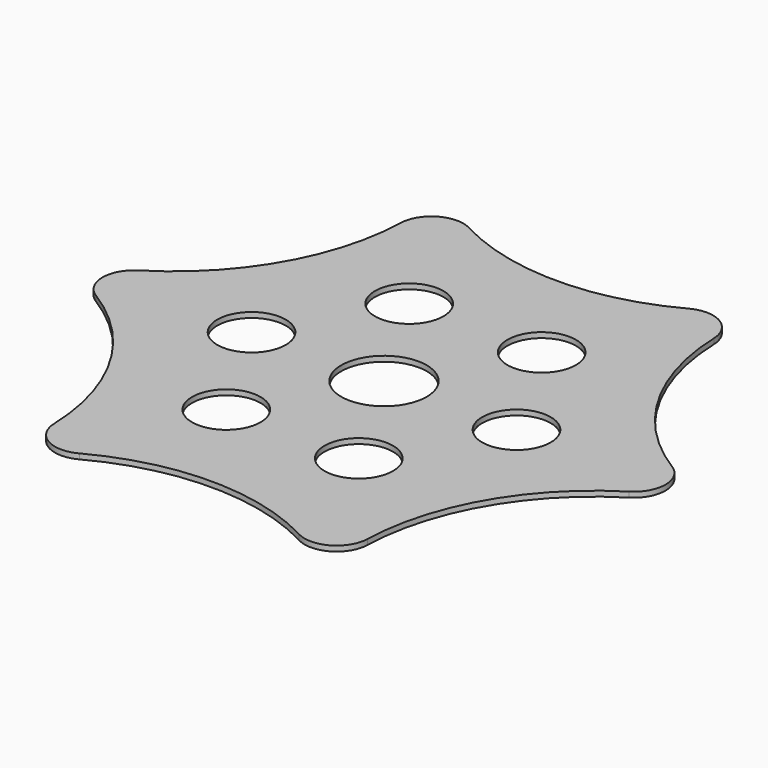
from build123d import *

# Parameters (mm, degrees)
F0_R     = 6.475
F0_R_2   = 8.075
F1_DEPTH = 1


with BuildPart() as f1:
    # F0 (on Top) → F1 (new body)
    with BuildSketch(Plane.XY):
        with BuildLine():
            ThreePointArc((20.655149, 46.151557), (-0.075475, 40.918495), (-20.825263, 46.075046))
            ThreePointArc((-20.825263, 46.075046), (-26.653292, 45.968832), (-29.640847, 40.963663))
            ThreePointArc((-29.640847, 40.963663), (-35.474194, 20.393884), (-50.314792, 5.002316))
            ThreePointArc((-50.314792, 5.002316), (-53.136822, -0.098012), (-50.295996, -5.187895))
            ThreePointArc((-50.295996, -5.187895), (-35.398719, -20.524611), (-29.489529, -41.07273))
            ThreePointArc((-29.489529, -41.07273), (-26.48353, -46.066844), (-20.655149, -46.151557))
            ThreePointArc((-20.655149, -46.151557), (0.075475, -40.918495), (20.825263, -46.075046))
            ThreePointArc((20.825263, -46.075046), (26.653292, -45.968832), (29.640847, -40.963663))
            ThreePointArc((29.640847, -40.963663), (35.474194, -20.393884), (50.314792, -5.002316))
            ThreePointArc((50.314792, -5.002316), (53.136822, 0.098012), (50.295996, 5.187895))
            ThreePointArc((50.295996, 5.187895), (35.398719, 20.524611), (29.489529, 41.07273))
            ThreePointArc((29.489529, 41.07273), (26.48353, 46.066844), (20.655149, 46.151557))
        make_face()
        with Locations((-12.460044, -21.673655)):
            Circle(F0_R, mode=Mode.SUBTRACT)
        with Locations((-24.999957, -0.046113)):
            Circle(F0_R, mode=Mode.SUBTRACT)
        with Locations((12.539914, -21.627542)):
            Circle(F0_R, mode=Mode.SUBTRACT)
        with Locations((-12.539914, 21.627542)):
            Circle(F0_R, mode=Mode.SUBTRACT)
        Circle(F0_R_2, mode=Mode.SUBTRACT)
        with Locations((24.999957, 0.046113)):
            Circle(F0_R, mode=Mode.SUBTRACT)
        with Locations((12.460044, 21.673655)):
            Circle(F0_R, mode=Mode.SUBTRACT)
    extrude(amount=F1_DEPTH)


solid = f1.part
